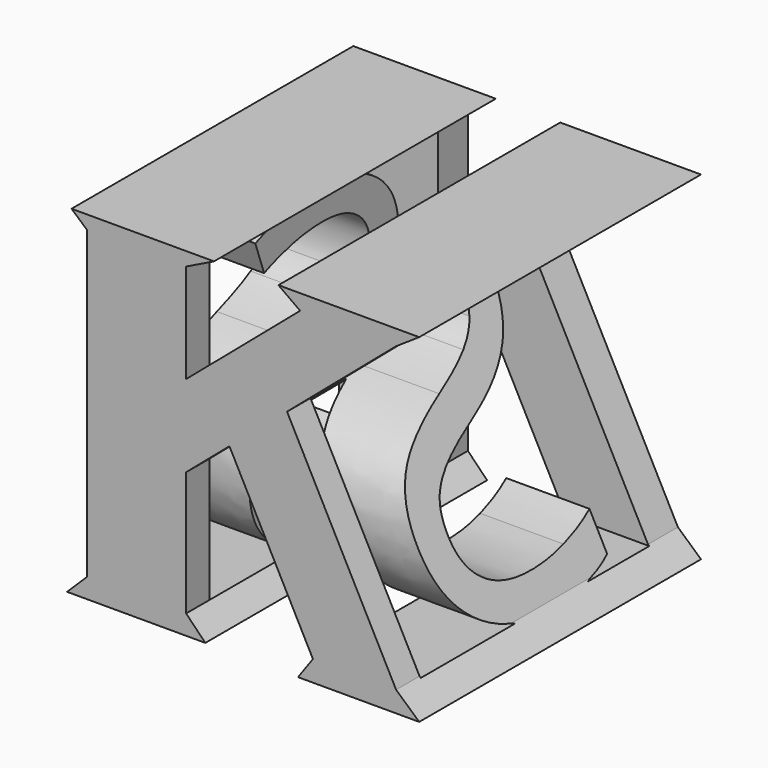
from build123d import *

# Parameters (mm, degrees)
F0_W     = 40
F0_H     = 40
F1_DEPTH = 20
F3_DEPTH = 40
F5_DEPTH = 40


with BuildPart() as f1:
    # F0 (on Top) → F1 (new body, symmetric)
    with BuildSketch(Plane.XY):
        with Locations((1.5531938896, 6.1647334952)):
            Rectangle(F0_W, F0_H)
    extrude(amount=F1_DEPTH, both=True)

    # F2 (on face) → F3 (cut)
    with BuildSketch(Plane.XZ.offset(13.8352665048)):
        Polygon((-16.1754488945, -17.7638176829), (-16.1754488945, 16.9195979834), (-17.9342441261, 18.4673368931), (-1.7519982438, 18.4673368931), (-4.9191680737, 16.9195979834), (-4.9191680737, 5.6633166969), (8.0255558714, 16.7085416615), (5.5645843596, 18.4673368931), (21.5531938896, 18.4673368931), (21.5531938896, 20), (-18.4468061104, 20), (-18.4468061104, -20), align=None)
        Polygon((-4.9191680737, -3.6410837378), (-4.9191680737, -17.7638176829), (-2.738263458, -20), (7.790808878, -20), (9.4793639142, -17.6373111743), (0, 0.5562493411), align=None)
        Polygon((21.5531938896, 18.4673368931), (18.9300775528, 16.7085416615), (6.5422186312, 6.1384677689), (18.9300775528, -17.6373111743), (21.5531938896, -20), align=None)
    extrude(amount=-F3_DEPTH, mode=Mode.SUBTRACT)

    # F4 (on face) → F5 (cut)
    with BuildSketch(Plane(origin=(-16.1754488945, 0, 0), x_dir=(0, -1, 0), z_dir=(-1, 0, 0))):
        with BuildLine():
            Line((-8.0944207202, 16.9195979834), (-21.9235271215, 16.9195979834))
            Line((-21.9235271215, 16.9195979834), (-21.9235271215, -17.7638176829))
            Line((-21.9235271215, -17.7638176829), (-13.2008954443, -17.7638176829))
            add(Edge.make_bspline(
                [(-13.2008954443, -17.7638176829), (-15.2677579114, -17.3722613611), (-16.7587949387, -16.6573805946)],
                knots=[0.5477225575, 0.5477225575, 0.5477225575, 1, 1, 1], degree=2))
            Line((-16.7587949387, -16.6573805946), (-16.7587949387, -12.8036677427))
            add(Edge.make_bspline(
                [(-16.7587949387, -12.8036677427), (-14.6362421571, -13.6918281266), (-12.1448770127, -14.2111761476)],
                knots=[0, 0, 0, 1, 1, 1], degree=2))
            add(Edge.make_bspline(
                [(-12.1448770127, -14.2111761476), (-9.6535118682, -14.7305241687), (-7.2073074213, -14.7305241687)],
                knots=[0, 0, 0, 1, 1, 1], degree=2))
            add(Edge.make_bspline(
                [(-7.2073074213, -14.7305241687), (-3.2105856941, -14.7305241687), (-1.1858810904, -13.2138774115)],
                knots=[0, 0, 0, 1, 1, 1], degree=2))
            add(Edge.make_bspline(
                [(-1.1858810904, -13.2138774115), (0.8388235134, -11.6972306544), (0.8388235134, -8.9875888055)],
                knots=[0, 0, 0, 1, 1, 1], degree=2))
            add(Edge.make_bspline(
                [(0.8388235134, -8.9875888055), (0.8388235134, -7.203741255), (0.1200157452, -6.0634336436)],
                knots=[0, 0, 0, 1, 1, 1], degree=2))
            add(Edge.make_bspline(
                [(0.1200157452, -6.0634336436), (-0.5987920231, -4.9231260321), (-2.2810280043, -3.9559344277)],
                knots=[0, 0, 0, 1, 1, 1], degree=2))
            add(Edge.make_bspline(
                [(-2.2810280043, -3.9559344277), (-3.9632639855, -2.9887428233), (-7.3954769941, -1.7694039913)],
                knots=[0, 0, 0, 1, 1, 1], degree=2))
            add(Edge.make_bspline(
                [(-7.3954769941, -1.7694039913), (-12.1900377101, -0.053297487), (-14.248612837, 2.2988221735)],
                knots=[0, 0, 0, 1, 1, 1], degree=2))
            add(Edge.make_bspline(
                [(-14.248612837, 2.2988221735), (-16.3071879639, 4.6509418341), (-16.3071879639, 8.4369136396)],
                knots=[0, 0, 0, 1, 1, 1], degree=2))
            add(Edge.make_bspline(
                [(-16.3071879639, 8.4369136396), (-16.3071879639, 12.4110550181), (-13.3228185387, 14.7631746786)],
                knots=[0, 0, 0, 1, 1, 1], degree=2))
            add(Edge.make_bspline(
                [(-13.3228185387, 14.7631746786), (-11.1992728724, 16.4368392958), (-8.0944207202, 16.9195979834)],
                knots=[0, 0, 0, 0.711555898, 0.711555898, 0.711555898], degree=2))
        make_face()
        with BuildLine():
            Line((10.5086332187, 16.9195979834), (-2.1952542756, 16.9195979834))
            add(Edge.make_bspline(
                [(-2.1952542756, 16.9195979834), (1.0982300016, 16.5084657005), (4.015125903, 15.2335986107)],
                knots=[0.3224903099, 0.3224903099, 0.3224903099, 1, 1, 1], degree=2))
            Line((4.015125903, 15.2335986107), (2.7656799393, 11.7562249046))
            add(Edge.make_bspline(
                [(2.7656799393, 11.7562249046), (-1.4944791898, 13.5400724551), (-5.5137812657, 13.5400724551)],
                knots=[0, 0, 0, 1, 1, 1], degree=2))
            add(Edge.make_bspline(
                [(-5.5137812657, 13.5400724551), (-8.6900836553, 13.5400724551), (-10.4776945973, 12.1777247477)],
                knots=[0, 0, 0, 1, 1, 1], degree=2))
            add(Edge.make_bspline(
                [(-10.4776945973, 12.1777247477), (-12.2653055393, 10.8153770404), (-12.2653055393, 8.3917529422)],
                knots=[0, 0, 0, 1, 1, 1], degree=2))
            add(Edge.make_bspline(
                [(-12.2653055393, 8.3917529422), (-12.2653055393, 6.6079053916), (-11.6067120343, 5.4638343887)],
                knots=[0, 0, 0, 1, 1, 1], degree=2))
            add(Edge.make_bspline(
                [(-11.6067120343, 5.4638343887), (-10.9481185294, 4.3197633859), (-9.3825476833, 3.3676253473)],
                knots=[0, 0, 0, 1, 1, 1], degree=2))
            add(Edge.make_bspline(
                [(-9.3825476833, 3.3676253473), (-7.8169768373, 2.4154873087), (-4.5955137502, 1.2638895229)],
                knots=[0, 0, 0, 1, 1, 1], degree=2))
            add(Edge.make_bspline(
                [(-4.5955137502, 1.2638895229), (0.8162431647, -0.662966903), (2.8484745514, -2.8758410796)],
                knots=[0, 0, 0, 1, 1, 1], degree=2))
            add(Edge.make_bspline(
                [(2.8484745514, -2.8758410796), (4.8807059381, -5.0887152562), (4.8807059381, -8.6112496598)],
                knots=[0, 0, 0, 1, 1, 1], degree=2))
            add(Edge.make_bspline(
                [(4.8807059381, -8.6112496598), (4.8807059381, -13.1498997568), (1.5877384133, -15.6939523816)],
                knots=[0, 0, 0, 1, 1, 1], degree=2))
            add(Edge.make_bspline(
                [(1.5877384133, -15.6939523816), (-0.2835572349, -17.1396619338), (-2.9144255561, -17.7638176829)],
                knots=[0, 0, 0, 0.5682703015, 0.5682703015, 0.5682703015], degree=2))
            Line((-2.9144255561, -17.7638176829), (10.5086332187, -17.7638176829))
            Line((10.5086332187, -17.7638176829), (10.5086332187, 16.9195979834))
        make_face()
    extrude(amount=-F5_DEPTH, mode=Mode.SUBTRACT)


solid = f1.part
